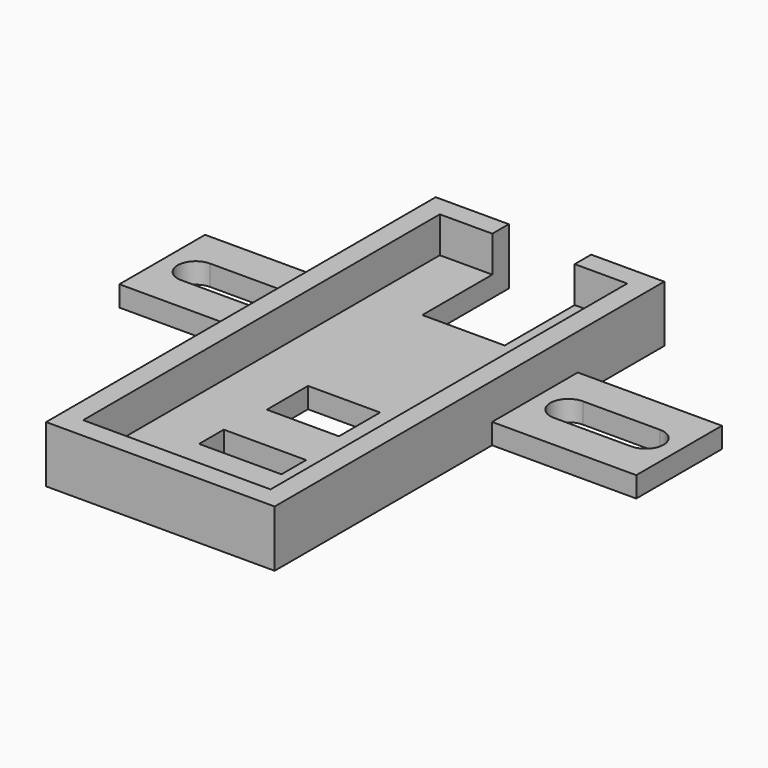
from build123d import *

# Parameters (mm, degrees)
F0_W     = 8
F0_H     = 3
F0_W_2   = 7
F0_H_2   = 5
F0_W_3   = 14
F0_H_3   = 10.4
F1_DEPTH = 2
F2_DEPTH = 5.5


with BuildPart() as f1:
    # F0 (on Top) → F1 (new body)
    with BuildSketch(Plane.XY):
        Polygon((-14.607415, 29.390514), (-14.607415, 37.890514), (-19.707415, 37.890514), (-19.707415, -5.409486), (-10.607415, -5.409486), (-1.507415, -5.409486), (-1.507415, 37.890514), (-6.607415, 37.890514), (-6.607415, 29.390514), (-10.607415, 29.390514), align=None)
        with Locations((-10.607415, 3.790514)):
            Rectangle(F0_W, F0_H, mode=Mode.SUBTRACT)
        with Locations((-10.607415, 12.390514)):
            Rectangle(F0_W_2, F0_H_2, mode=Mode.SUBTRACT)
        with Locations((7.492585, 24.190514)):
            Rectangle(F0_W_3, F0_H_3)
        with BuildLine():
            ThreePointArc((11.242585, 25.940514), (12.480022, 25.427951), (12.992585, 24.190514))
            ThreePointArc((12.992585, 24.190514), (12.480022, 22.953077), (11.242585, 22.440514))
            Line((11.242585, 22.440514), (3.742585, 22.440514))
            ThreePointArc((3.742585, 22.440514), (1.992585, 24.190514), (3.742585, 25.940514))
            Line((3.742585, 25.940514), (11.242585, 25.940514))
        make_face(mode=Mode.SUBTRACT)
        with Locations((-28.707415, 24.190514)):
            Rectangle(F0_W_3, F0_H_3)
        with BuildLine():
            ThreePointArc((-32.457415, 22.440514), (-34.207415, 24.190514), (-32.457415, 25.940514))
            Line((-32.457415, 25.940514), (-24.957415, 25.940514))
            ThreePointArc((-24.957415, 25.940514), (-23.719978, 25.427951), (-23.207415, 24.190514))
            ThreePointArc((-23.207415, 24.190514), (-23.719978, 22.953077), (-24.957415, 22.440514))
            Line((-24.957415, 22.440514), (-32.457415, 22.440514))
        make_face(mode=Mode.SUBTRACT)
    extrude(amount=F1_DEPTH)

    # F0 (on Top) → F2 (join)
    with BuildSketch(Plane.XY):
        Polygon((-19.707415, 37.890514), (-14.607415, 37.890514), (-14.607415, 39.890514), (-21.707415, 39.890514), (-21.707415, 29.390514), (-21.707415, 18.990514), (-21.707415, -7.409486), (-10.607415, -7.409486), (0.492585, -7.409486), (0.492585, 18.990514), (0.492585, 29.390514), (0.492585, 39.890514), (-6.607415, 39.890514), (-6.607415, 37.890514), (-1.507415, 37.890514), (-1.507415, -5.409486), (-10.607415, -5.409486), (-19.707415, -5.409486), align=None)
    extrude(amount=F2_DEPTH)


solid = f1.part
